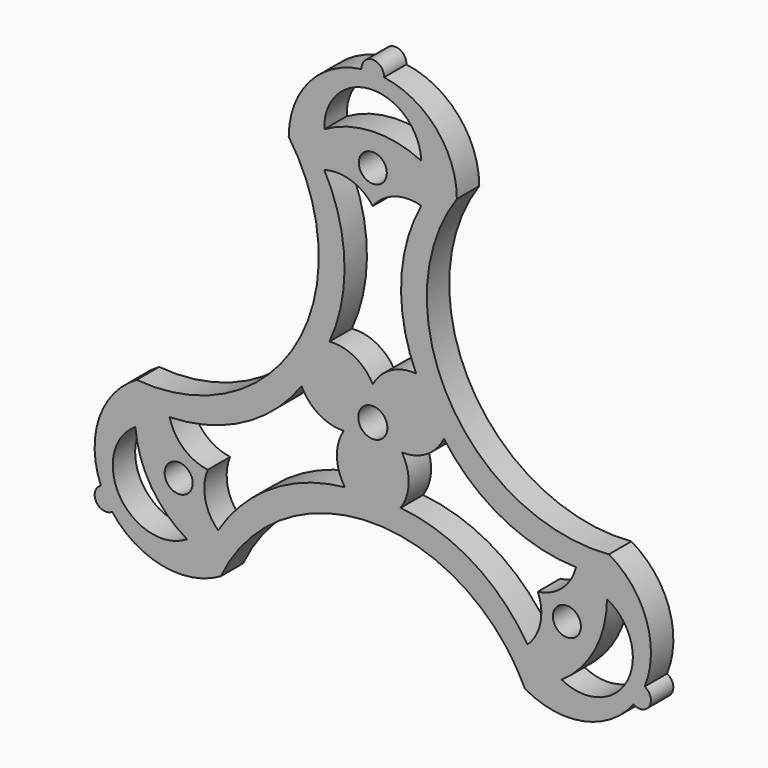
from build123d import *

# Parameters (mm, degrees)
F0_R     = 1.5875
F0_R_2   = 1.651
F1_DEPTH = 3.175
F3_DEPTH = 25.4


with BuildPart() as f1:
    # F0 (on Front) → F1 (new body)
    with BuildSketch(Plane.XZ):
        with BuildLine():
            ThreePointArc((26.759545, -4.451108), (8.673337, 5.007554), (9.525, 25.4))
            ThreePointArc((9.525, 25.4), (7.169221, 31.671196), (1.267175, 34.840333))
            ThreePointArc((1.267175, 34.840333), (0, 36.195), (-1.267175, 34.840333))
            ThreePointArc((-1.267175, 34.840333), (-7.169221, 31.671196), (-9.525, 25.4))
            ThreePointArc((-9.525, 25.4), (-8.673337, 5.007554), (-26.759545, -4.451108))
            ThreePointArc((-26.759545, -4.451108), (-31.01267, -9.62687), (-30.806201, -16.322761))
            ThreePointArc((-30.806201, -16.322761), (-31.345789, -18.0975), (-29.539026, -18.517572))
            ThreePointArc((-29.539026, -18.517572), (-23.843449, -22.044325), (-17.234545, -20.948892))
            ThreePointArc((-17.234545, -20.948892), (0, -10.015107), (17.234545, -20.948892))
            ThreePointArc((17.234545, -20.948892), (23.843449, -22.044325), (29.539026, -18.517572))
            ThreePointArc((29.539026, -18.517572), (31.345789, -18.0975), (30.806201, -16.322761))
            ThreePointArc((30.806201, -16.322761), (31.01267, -9.62687), (26.759545, -4.451108))
        make_face()
        with Locations((-21.997045, -12.7)):
            Circle(F0_R, mode=Mode.SUBTRACT)
        with BuildLine():
            ThreePointArc((-23.020996, -6.950115), (-14.608546, -4.724132), (-8.063724, 1.010815))
            ThreePointArc((-8.063724, 1.010815), (-6.118354, -1.160642), (-3.299557, -1.905))
            ThreePointArc((-3.299557, -1.905), (-4.064323, -4.718329), (-3.156471, -7.488797))
            ThreePointArc((-3.156471, -7.488797), (-11.395492, -10.289306), (-17.529475, -16.46171))
            ThreePointArc((-17.529475, -16.46171), (-18.994751, -13.810001), (-18.697488, -10.795))
            ThreePointArc((-18.697488, -10.795), (-21.457187, -9.544936), (-23.020996, -6.950115))
        make_face(mode=Mode.SUBTRACT)
        with BuildLine():
            ThreePointArc((17.529475, -16.46171), (11.395492, -10.289306), (3.156471, -7.488797))
            ThreePointArc((3.156471, -7.488797), (4.064323, -4.718329), (3.299557, -1.905))
            ThreePointArc((3.299557, -1.905), (6.118354, -1.160642), (8.063724, 1.010815))
            ThreePointArc((8.063724, 1.010815), (14.608546, -4.724132), (23.020996, -6.950115))
            ThreePointArc((23.020996, -6.950115), (21.457187, -9.544936), (18.697488, -10.795))
            ThreePointArc((18.697488, -10.795), (18.994751, -13.810001), (17.529475, -16.46171))
        make_face(mode=Mode.SUBTRACT)
        with Locations((21.997045, -12.7)):
            Circle(F0_R, mode=Mode.SUBTRACT)
        Circle(F0_R_2, mode=Mode.SUBTRACT)
        with BuildLine():
            ThreePointArc((0, 3.81), (-2.054032, 5.878971), (-4.907253, 6.477982))
            ThreePointArc((-4.907253, 6.477982), (-3.213054, 15.013438), (-5.491522, 23.411825))
            ThreePointArc((-5.491522, 23.411825), (-2.462436, 23.354937), (0, 21.59))
            ThreePointArc((0, 21.59), (2.462436, 23.354937), (5.491522, 23.411825))
            ThreePointArc((5.491522, 23.411825), (3.213054, 15.013438), (4.907253, 6.477982))
            ThreePointArc((4.907253, 6.477982), (2.054032, 5.878971), (0, 3.81))
        make_face(mode=Mode.SUBTRACT)
        with Locations((0, 25.4)):
            Circle(F0_R, mode=Mode.SUBTRACT)
    extrude(amount=F1_DEPTH)

    # F2 (on face) → F3 (cut)
    with BuildSketch(Plane.XZ.offset(3.175)):
        with BuildLine():
            ThreePointArc((-5.491522, 27.474776), (-0.051179, 29.035183), (5.491522, 27.890343))
            ThreePointArc((5.491522, 27.890343), (-0.207784, 33.174081), (-5.491522, 27.474776))
        make_face()
        with BuildLine():
            ThreePointArc((-21.048093, -18.493185), (-25.119616, -14.561914), (-26.899507, -9.189374))
            ThreePointArc((-26.899507, -9.189374), (-28.625705, -16.766987), (-21.048093, -18.493185))
        make_face()
        with BuildLine():
            ThreePointArc((26.539615, -8.981591), (25.170796, -14.473269), (21.407985, -18.700969))
            ThreePointArc((21.407985, -18.700969), (28.833489, -16.407095), (26.539615, -8.981591))
        make_face()
    extrude(amount=-F3_DEPTH, mode=Mode.SUBTRACT)


solid = f1.part
